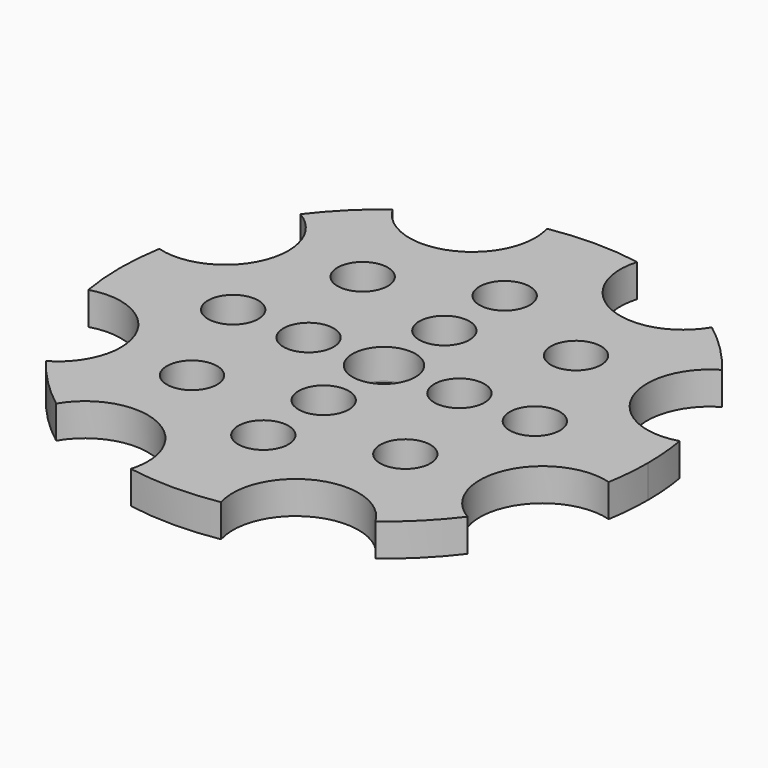
from build123d import *

# Parameters (mm, degrees)
F0_R     = 2.54
F0_R_2   = 3.175
F1_DEPTH = 3.302
F2_R     = 0.254


with BuildPart() as f1:
    # F0 (on Top) → F1 (new body)
    with BuildSketch(Plane.XY):
        with BuildLine():
            ThreePointArc((26.290163, -4.485113), (26.574871, -2.250584), (26.67, 0))
            ThreePointArc((26.67, 0), (26.574871, 2.250584), (26.290163, 4.485113))
            ThreePointArc((26.290163, 4.485113), (18.655, 8.055643), (21.29119, 16.061573))
            ThreePointArc((21.29119, 16.061573), (18.886589, 18.830445), (16.124888, 21.243279))
            ThreePointArc((16.124888, 21.243279), (8.111146, 18.630934), (4.563362, 26.276694))
            ThreePointArc((4.563362, 26.276694), (0, 26.67), (-4.563362, 26.276694))
            ThreePointArc((-4.563362, 26.276694), (-4.363106, 25.374654), (-4.295879, 24.453101))
            ThreePointArc((-4.295879, 24.453101), (-8.982931, 18.324716), (-16.124888, 21.243279))
            ThreePointArc((-16.124888, 21.243279), (-18.886589, 18.830445), (-21.29119, 16.061573))
            ThreePointArc((-21.29119, 16.061573), (-18.980089, 13.73877), (-18.134687, 10.573032))
            ThreePointArc((-18.134687, 10.573032), (-20.686152, 5.484453), (-26.290163, 4.485113))
            ThreePointArc((-26.290163, 4.485113), (-26.67, 0), (-26.290163, -4.485113))
            ThreePointArc((-26.290163, -4.485113), (-20.686152, -5.484453), (-18.134687, -10.573032))
            ThreePointArc((-18.134687, -10.573032), (-18.980089, -13.73877), (-21.29119, -16.061573))
            ThreePointArc((-21.29119, -16.061573), (-18.886589, -18.830445), (-16.124888, -21.243279))
            ThreePointArc((-16.124888, -21.243279), (-8.982931, -18.324716), (-4.295879, -24.453101))
            ThreePointArc((-4.295879, -24.453101), (-4.363106, -25.374654), (-4.563362, -26.276694))
            ThreePointArc((-4.563362, -26.276694), (0, -26.67), (4.563362, -26.276694))
            ThreePointArc((4.563362, -26.276694), (8.111146, -18.630934), (16.124888, -21.243279))
            ThreePointArc((16.124888, -21.243279), (18.886589, -18.830445), (21.29119, -16.061573))
            ThreePointArc((21.29119, -16.061573), (18.655, -8.055643), (26.290163, -4.485113))
        make_face()
        with Locations((-10.776307, -10.776307)):
            Circle(F0_R, mode=Mode.SUBTRACT)
        with Locations((0, -15.24)):
            Circle(F0_R, mode=Mode.SUBTRACT)
        with Locations((0, -7.62)):
            Circle(F0_R, mode=Mode.SUBTRACT)
        with Locations((10.776307, -10.776307)):
            Circle(F0_R, mode=Mode.SUBTRACT)
        with Locations((-15.24, 0)):
            Circle(F0_R, mode=Mode.SUBTRACT)
        with Locations((-7.62, 0)):
            Circle(F0_R, mode=Mode.SUBTRACT)
        Circle(F0_R_2, mode=Mode.SUBTRACT)
        with Locations((0, 7.62)):
            Circle(F0_R, mode=Mode.SUBTRACT)
        with Locations((-10.776307, 10.776307)):
            Circle(F0_R, mode=Mode.SUBTRACT)
        with Locations((0, 15.24)):
            Circle(F0_R, mode=Mode.SUBTRACT)
        with Locations((7.62, 0)):
            Circle(F0_R, mode=Mode.SUBTRACT)
        with Locations((15.24, 0)):
            Circle(F0_R, mode=Mode.SUBTRACT)
        with Locations((10.776307, 10.776307)):
            Circle(F0_R, mode=Mode.SUBTRACT)
    extrude(amount=F1_DEPTH)

    # F2
    f2_edges = [f1.edges().sort_by_distance(p)[0] for p in [
        (-17.78, 0, 0),
        (-13.316307, 10.776307, 0),
        (-10.16, 0, 0),
        (-13.316307, -10.776307, 0),
        (-2.54, -7.62, 0),
        (-2.54, -15.24, 0),
        (8.236307, -10.776307, 0),
        (5.08, 0, 0),
        (-2.54, 7.62, 0),
        (-3.175, 0, 0),
        (8.236307, 10.776307, 0),
        (-2.54, 15.24, 0),
        (12.7, 0, 0),
    ]]
    fillet(f2_edges, radius=F2_R)


solid = f1.part
